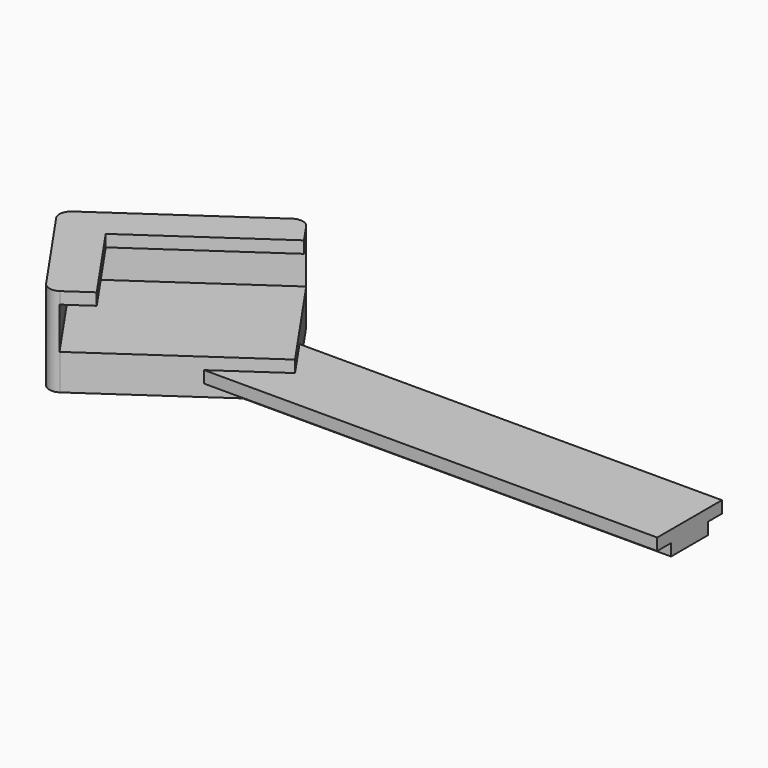
from build123d import *

# Parameters (mm, degrees)
F1_DEPTH = 51.181
F3_DEPTH = 15.24
F4_DEPTH = 3.81
F6_START = 2.54
F6_DEPTH = 8.89
F8_START = 2.54
F8_DEPTH = 20.574


with BuildPart() as f1:
    # F0 (on Right) → F1 (new body, symmetric)
    with BuildSketch(Plane.YZ):
        Polygon((8.636, 1.27), (-8.636, 1.27), (-8.636, -1.27), (-4.953, -1.27), (-4.953, -3.81), (4.953, -3.81), (4.953, -1.27), (8.636, -1.27), align=None)
    extrude(amount=F1_DEPTH, both=True)

    # F2 (on Top) → F3 (join)
    with BuildSketch(Plane.XY):
        with BuildLine():
            Line((-65.4284994702, -22.3050312109), (-33.107586205, 0))
            Line((-33.107586205, 0), (-48.0534703304, 21.6572045976))
            ThreePointArc((-48.0534703304, 21.6572045976), (-49.6859023505, 22.7128681239), (-51.5866729398, 22.3050312109))
            Line((-51.5866729398, 22.3050312109), (-81.8170715936, 1.442687998))
            ThreePointArc((-81.8170715936, 1.442687998), (-82.87273512, -0.189744022), (-82.464898207, -2.0905146114))
            Line((-82.464898207, -2.0905146114), (-68.9617020796, -21.6572045976))
            ThreePointArc((-68.9617020796, -21.6572045976), (-67.3292700595, -22.7128681239), (-65.4284994702, -22.3050312109))
        make_face()
    extrude(amount=F3_DEPTH)

    # F2 (on Top) → F4 (join)
    with BuildSketch(Plane.XY):
        with BuildLine():
            Line((-65.4284994702, -22.3050312109), (-33.107586205, 0))
            Line((-33.107586205, 0), (-48.0534703304, 21.6572045976))
            ThreePointArc((-48.0534703304, 21.6572045976), (-49.6859023505, 22.7128681239), (-51.5866729398, 22.3050312109))
            Line((-51.5866729398, 22.3050312109), (-81.8170715936, 1.442687998))
            ThreePointArc((-81.8170715936, 1.442687998), (-82.87273512, -0.189744022), (-82.464898207, -2.0905146114))
            Line((-82.464898207, -2.0905146114), (-68.9617020796, -21.6572045976))
            ThreePointArc((-68.9617020796, -21.6572045976), (-67.3292700595, -22.7128681239), (-65.4284994702, -22.3050312109))
        make_face()
    extrude(amount=-F4_DEPTH)

    # F5 (on face) → F6 (cut)
    with BuildSketch(Plane.XY.offset(1.27).offset(F6_START)):
        Polygon((-40.4348767453, 27.082724402), (-80.5502137997, -0.6013276448), (-61.860116521, -27.6840520468), (-21.7447794666, 0), align=None)
    extrude(amount=F6_DEPTH, mode=Mode.SUBTRACT)

    # F7 (on face) → F8 (cut)
    with BuildSketch(Plane.XY.offset(1.27).offset(F8_START)):
        Polygon((-40.4291285362, 20.671173085), (-72.4270038917, -1.4109259767), (-57.7466082971, -22.6834267065), (-25.7487329416, -0.6013276448), align=None)
    extrude(amount=F8_DEPTH, mode=Mode.SUBTRACT)


solid = f1.part
